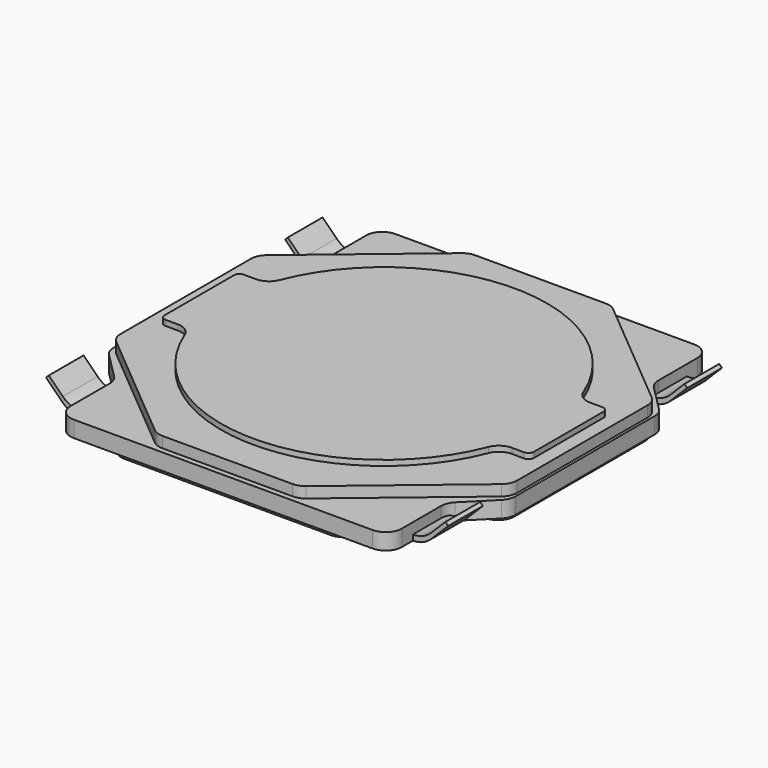
from build123d import *

# Parameters (mm, degrees)
PAD001_DEPTH = 0.05
PAD002_DEPTH = 0.15
SKETCH_W     = 3.05
SKETCH_H     = 0.4
POCKET_DEPTH = 0.05
PAD003_DEPTH = 0.1
PAD005_DEPTH = 0.2
PAD_DEPTH    = 0.05


with BuildPart() as base:
    # Sketch001 (on XY_Plane of Origin) → Pad001 (new body)
    with BuildSketch(Plane.XY):
        with BuildLine():
            Line((-0.95, 1.8), (0.95, 1.8))
            ThreePointArc((1.1, 1.65), (1.056066, 1.756066), (0.95, 1.8))
            Line((1.1, 1.65), (1.1, 1.05))
            ThreePointArc((1.1, 1.05), (1.143934, 0.943934), (1.25, 0.9))
            Line((1.25, 0.9), (1.65, 0.9))
            ThreePointArc((1.8, 0.75), (1.756066, 0.856066), (1.65, 0.9))
            Line((1.8, 0.75), (1.8, -0.75))
            ThreePointArc((1.65, -0.9), (1.756066, -0.856066), (1.8, -0.75))
            Line((1.65, -0.9), (1.25, -0.9))
            ThreePointArc((1.25, -0.9), (1.143934, -0.943934), (1.1, -1.05))
            Line((1.1, -1.05), (1.1, -1.65))
            ThreePointArc((0.95, -1.8), (1.056066, -1.756066), (1.1, -1.65))
            Line((0.95, -1.8), (-0.95, -1.8))
            ThreePointArc((-1.1, -1.65), (-1.056066, -1.756066), (-0.95, -1.8))
            Line((-1.1, -1.65), (-1.1, -1.05))
            ThreePointArc((-1.1, -1.05), (-1.143934, -0.943934), (-1.25, -0.9))
            Line((-1.25, -0.9), (-1.65, -0.9))
            ThreePointArc((-1.8, -0.75), (-1.756066, -0.856066), (-1.65, -0.9))
            Line((-1.8, -0.75), (-1.8, 0.75))
            ThreePointArc((-1.65, 0.9), (-1.756066, 0.856066), (-1.8, 0.75))
            Line((-1.65, 0.9), (-1.25, 0.9))
            ThreePointArc((-1.25, 0.9), (-1.143934, 0.943934), (-1.1, 1.05))
            Line((-1.1, 1.05), (-1.1, 1.65))
            ThreePointArc((-0.95, 1.8), (-1.056066, 1.756066), (-1.1, 1.65))
        make_face()
    extrude(amount=PAD001_DEPTH)

    # Sketch002 (on XY_Plane of Origin) → Pad002 (join)
    with BuildSketch(Plane.XY.offset(0.05)):
        with BuildLine():
            Line((-1.525, 1.7), (-1.525, 1.249264))
            ThreePointArc((-1.568934, 1.143198), (-1.536418, 1.191862), (-1.525, 1.249264))
            Line((-1.568934, 1.143198), (-1.806066, 0.906066))
            ThreePointArc((-1.806066, 0.906066), (-1.838582, 0.857403), (-1.85, 0.8))
            Line((-1.85, 0.8), (-1.85, -0.8))
            ThreePointArc((-1.85, -0.8), (-1.838582, -0.857403), (-1.806066, -0.906066))
            Line((-1.806066, -0.906066), (-1.568934, -1.143198))
            ThreePointArc((-1.525, -1.249264), (-1.536418, -1.191862), (-1.568934, -1.143198))
            Line((-1.525, -1.249264), (-1.525, -1.7))
            ThreePointArc((-1.525, -1.7), (-1.481066, -1.806066), (-1.375, -1.85))
            Line((-1.375, -1.85), (1.375, -1.85))
            ThreePointArc((1.375, -1.85), (1.481066, -1.806066), (1.525, -1.7))
            Line((1.525, -1.7), (1.525, -1.249264))
            ThreePointArc((1.568934, -1.143198), (1.536418, -1.191862), (1.525, -1.249264))
            Line((1.806066, -0.906066), (1.568934, -1.143198))
            ThreePointArc((1.806066, -0.906066), (1.838582, -0.857403), (1.85, -0.8))
            Line((1.85, 0.8), (1.85, -0.8))
            ThreePointArc((1.85, 0.8), (1.838582, 0.857403), (1.806066, 0.906066))
            Line((1.568934, 1.143198), (1.806066, 0.906066))
            ThreePointArc((1.525, 1.249264), (1.536418, 1.191862), (1.568934, 1.143198))
            Line((1.525, 1.249264), (1.525, 1.7))
            ThreePointArc((1.525, 1.7), (1.481066, 1.806066), (1.375, 1.85))
            Line((1.375, 1.85), (-1.375, 1.85))
            ThreePointArc((-1.375, 1.85), (-1.481066, 1.806066), (-1.525, 1.7))
        make_face()
    extrude(amount=PAD002_DEPTH)

    # Sketch (on Face5 of Pad002) → Pocket (cut)
    with BuildSketch(Plane(origin=(0, 0, 0.05), x_dir=(1, 0, 0), z_dir=(0, 0, -1))):
        with Locations((0, 1.375)):
            Rectangle(SKETCH_W, SKETCH_H)
        with Locations((0, -1.375)):
            Rectangle(SKETCH_W, SKETCH_H)
    extrude(amount=-POCKET_DEPTH, mode=Mode.SUBTRACT)

    # Sketch003 (on XY_Plane of Origin) → Pad003 (join)
    with BuildSketch(Plane.XY.offset(0.2)):
        with BuildLine():
            Line((-1.77129, 0.865014), (-0.69629, 1.765014))
            ThreePointArc((-0.6, 1.8), (-0.651225, 1.790982), (-0.69629, 1.765014))
            Line((-0.6, 1.8), (0.6, 1.8))
            ThreePointArc((0.69629, 1.765014), (0.651225, 1.790982), (0.6, 1.8))
            Line((0.69629, 1.765014), (1.77129, 0.865014))
            ThreePointArc((1.825, 0.75), (1.810911, 0.813468), (1.77129, 0.865014))
            Line((1.825, 0.75), (1.825, -0.75))
            ThreePointArc((1.77129, -0.865014), (1.810911, -0.813468), (1.825, -0.75))
            Line((1.77129, -0.865014), (0.69629, -1.765014))
            ThreePointArc((0.6, -1.8), (0.651225, -1.790982), (0.69629, -1.765014))
            Line((0.6, -1.8), (-0.6, -1.8))
            ThreePointArc((-0.69629, -1.765014), (-0.651225, -1.790982), (-0.6, -1.8))
            Line((-0.69629, -1.765014), (-1.77129, -0.865014))
            ThreePointArc((-1.825, -0.75), (-1.810911, -0.813468), (-1.77129, -0.865014))
            Line((-1.825, -0.75), (-1.825, 0.75))
            ThreePointArc((-1.77129, 0.865014), (-1.810911, 0.813468), (-1.825, 0.75))
        make_face()
    extrude(amount=PAD003_DEPTH)


with BuildPart() as leads:
    # Sketch005 (on XZ_Plane of Origin) → Pad005 (new body, symmetric)
    with BuildSketch(Plane(origin=(0, 1.375, 0.05), x_dir=(1, 0, 0), z_dir=(0, -1, 0))):
        with BuildLine():
            Line((1.525, 0), (-1.525, 0))
            ThreePointArc((-1.695711, 0.070711), (-1.617388, 0.018377), (-1.525, 0))
            Line((-1.695711, 0.070711), (-1.85, 0.225))
            Line((-1.825, 0.25), (-1.85, 0.225))
            Line((-1.695711, 0.120711), (-1.825, 0.25))
            ThreePointArc((-1.695711, 0.120711), (-1.617388, 0.068377), (-1.525, 0.05))
            Line((-1.525, 0.05), (1.525, 0.05))
            ThreePointArc((1.525, 0.05), (1.617388, 0.068377), (1.695711, 0.120711))
            Line((1.695711, 0.120711), (1.825, 0.25))
            Line((1.825, 0.25), (1.85, 0.225))
            Line((1.695711, 0.070711), (1.85, 0.225))
            ThreePointArc((1.525, 0), (1.617388, 0.018377), (1.695711, 0.070711))
        make_face()
    pad005 = extrude(amount=PAD005_DEPTH, both=True)

    # Mirrored001: Pad005 across XZ
    add(pad005.mirror(Plane.XZ))


with BuildPart() as actuator:
    # Sketch006 (on XY_Plane of Origin) → Pad (new body)
    with BuildSketch(Plane.XY.offset(0.3)):
        with BuildLine():
            ThreePointArc((-1.397311, -0.545455), (0, -1.5), (1.397311, -0.545455))
            ThreePointArc((1.537043, -0.45), (1.452431, -0.476142), (1.397311, -0.545455))
            Line((1.537043, -0.45), (1.65, -0.45))
            ThreePointArc((1.65, -0.45), (1.685355, -0.435355), (1.7, -0.4))
            Line((1.7, -0.4), (1.7, 0.4))
            ThreePointArc((1.7, 0.4), (1.685355, 0.435355), (1.65, 0.45))
            Line((1.65, 0.45), (1.537043, 0.45))
            ThreePointArc((1.397311, 0.545455), (1.452431, 0.476142), (1.537043, 0.45))
            ThreePointArc((1.397311, 0.545455), (0, 1.5), (-1.397311, 0.545455))
            ThreePointArc((-1.537043, 0.45), (-1.452431, 0.476142), (-1.397311, 0.545455))
            Line((-1.537043, 0.45), (-1.65, 0.45))
            ThreePointArc((-1.65, 0.45), (-1.685355, 0.435355), (-1.7, 0.4))
            Line((-1.7, 0.4), (-1.7, -0.4))
            ThreePointArc((-1.7, -0.4), (-1.685355, -0.435355), (-1.65, -0.45))
            Line((-1.65, -0.45), (-1.537043, -0.45))
            ThreePointArc((-1.397311, -0.545455), (-1.452431, -0.476142), (-1.537043, -0.45))
        make_face()
    extrude(amount=PAD_DEPTH)


solid = Compound([base.part, leads.part, actuator.part])
